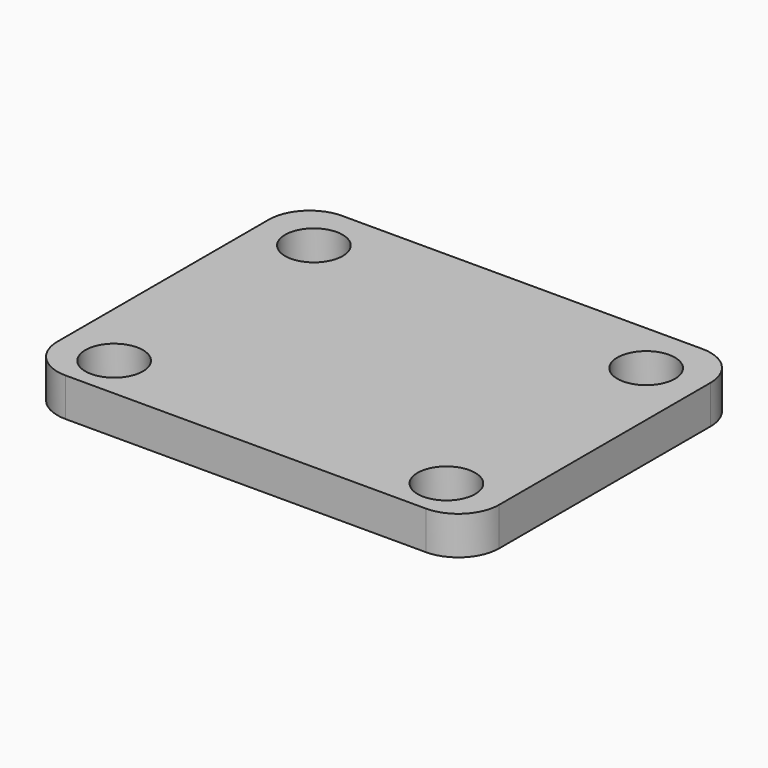
from build123d import *

# Parameters (mm, degrees)
PAD_DEPTH    = 2
SKETCH001_R  = 1.5
POCKET_DEPTH = 2.001


with BuildPart() as part:
    # Sketch → Pad (new body)
    with BuildSketch(Plane.XY):
        with BuildLine():
            Line((0, 15.87868), (0, 2.12132))
            ThreePointArc((0, 2.12132), (0.62132, 0.62132), (2.12132, 0))
            Line((2.12132, 0), (20.87868, 0))
            ThreePointArc((20.87868, 0), (22.37868, 0.62132), (23, 2.12132))
            Line((23, 2.12132), (23, 15.87868))
            ThreePointArc((23, 15.87868), (22.37868, 17.37868), (20.87868, 18))
            Line((20.87868, 18), (2.12132, 18))
            ThreePointArc((2.12132, 18), (0.62132, 17.37868), (0, 15.87868))
        make_face()
    extrude(amount=PAD_DEPTH)

    # Sketch001 → Pocket (cut, through all)
    with BuildSketch(Plane.XY):
        with Locations((20.15, 15.25)):
            Circle(SKETCH001_R)
        with Locations((2.85, 15.25)):
            Circle(SKETCH001_R)
        with Locations((2.85, 2.25)):
            Circle(SKETCH001_R)
        with Locations((20.15, 2.25)):
            Circle(SKETCH001_R)
    extrude(amount=POCKET_DEPTH, mode=Mode.SUBTRACT)


solid = part.part
